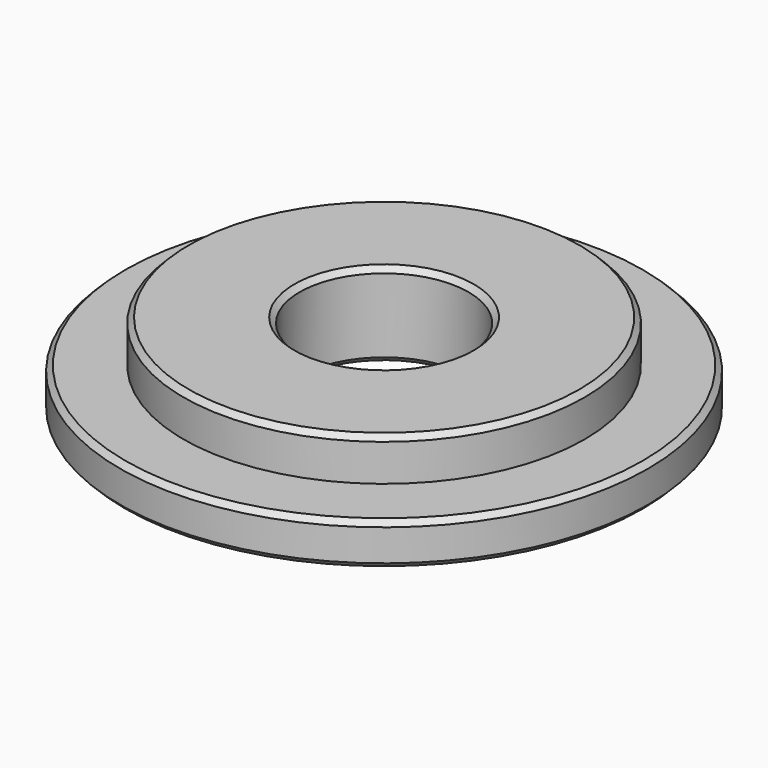
from build123d import *

# Parameters (mm, degrees)
F0_R     = 12.5
F0_R_2   = 4
F1_DEPTH = 2
F2_R     = 9.5
F2_R_2   = 4
F3_DEPTH = 2
F4_SIZE  = 0.25


with BuildPart() as f1:
    # F0 (on Top) → F1 (new body)
    with BuildSketch(Plane.XY):
        Circle(F0_R)
        Circle(F0_R_2, mode=Mode.SUBTRACT)
    extrude(amount=F1_DEPTH)

    # F2 (on face) → F3 (join)
    with BuildSketch(Plane.XY.offset(2)):
        Circle(F2_R)
        Circle(F2_R_2, mode=Mode.SUBTRACT)
    extrude(amount=F3_DEPTH)

    # F4
    f4_edges = [f1.edges().sort_by_distance(p)[0] for p in [
        (-9.5, 0, 4),
        (-4, 0, 4),
        (-12.5, 0, 2),
        (-12.5, 0, 0),
        (-4, 0, 0),
    ]]
    chamfer(f4_edges, length=F4_SIZE)


solid = f1.part
